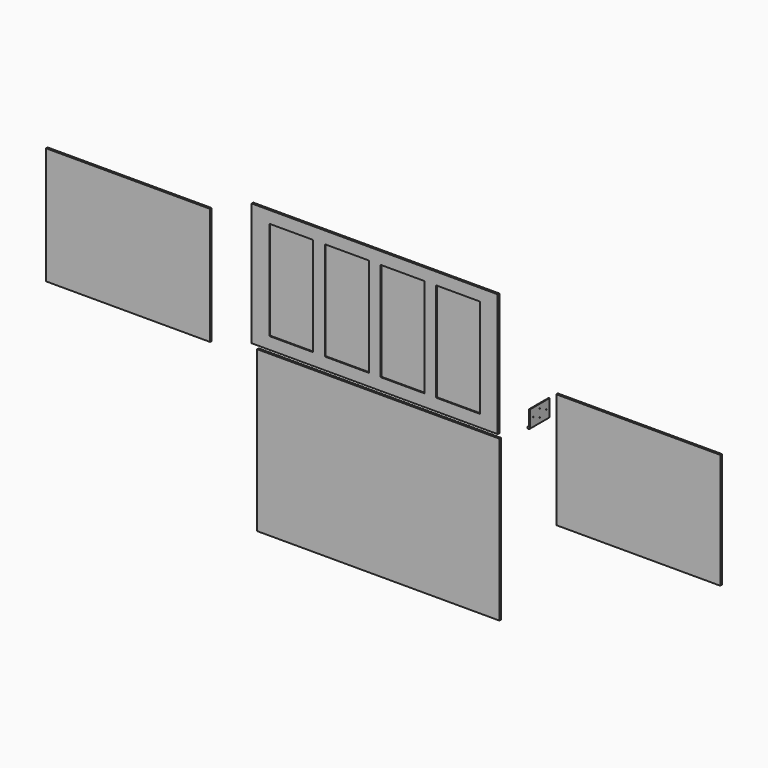
from build123d import *

# Parameters (mm, degrees)
F1_W      = 1500
F1_H      = 750
F2_DEPTH  = 12
F3_W      = 267.2805812507
F3_H      = 602.7265457989
F4_DEPTH  = 6
F6_DEPTH  = 150
F7_R      = 2.5
F8_DEPTH  = 5
F9_W      = 1000
F9_H      = 714
F10_DEPTH = 12
F11_W     = 1000
F11_H     = 702
F12_DEPTH = 12
F13_W     = 1476
F13_H     = 976
F14_DEPTH = 12


with BuildPart() as f2:
    # F1 (on Front) → F2 (new body)
    with BuildSketch(Plane.XZ):
        with Locations((-5.1156505942, -9.4215959932)):
            Rectangle(F1_W, F1_H)
    extrude(amount=F2_DEPTH)

    # F3 (on face) → F4 (cut)
    with BuildSketch(Plane.XZ.offset(12)):
        with Locations((-513.6726281385, -9.4215959932)):
            Rectangle(F3_W, F3_H)
        with Locations((-174.634643109, -9.4215959932)):
            Rectangle(F3_W, F3_H)
        with Locations((164.4033419205, -9.4215959932)):
            Rectangle(F3_W, F3_H)
        with Locations((503.4413269501, -9.4215959932)):
            Rectangle(F3_W, F3_H)
    extrude(amount=-F4_DEPTH, mode=Mode.SUBTRACT)


with BuildPart() as f6:
    # F5 (on Front) → F6 (new body)
    with BuildSketch(Plane.XZ):
        with BuildLine():
            ThreePointArc((1045.6069111416, -189.8425437506), (1049.2306354986, -192.5834845435), (1050.6069111416, -196.9136115624))
            Line((1050.6069111416, -196.9136115624), (1050.6069111416, -96.9136115624))
            Line((1050.6069111416, -96.9136115624), (1045.6069111416, -96.9136115624))
            Line((1045.6069111416, -96.9136115624), (1045.6069111416, -189.8425437506))
        make_face()
        with BuildLine():
            ThreePointArc((1045.6069111416, -189.8425437506), (1036.9831867846, -201.2437385814), (1050.6069111416, -196.9136115624))
            ThreePointArc((1050.6069111416, -196.9136115624), (1049.2306354986, -192.5834845435), (1045.6069111416, -189.8425437506))
        make_face()
    extrude(amount=F6_DEPTH)

    # F7 (on face) → F8 (cut, through all)
    with BuildSketch(Plane.YZ.offset(1050.6069111416)):
        with Locations((-124.4641467929, -146.9136115624)):
            Circle(F7_R)
        with Locations((-75, -122.4494647696)):
            Circle(F7_R)
        with Locations((-75, -171.3777583553)):
            Circle(F7_R)
        with Locations((-25.5358532071, -146.9136115624)):
            Circle(F7_R)
    extrude(amount=-F8_DEPTH, mode=Mode.SUBTRACT)


with BuildPart() as f10:
    # F9 (on Front) → F10 (new body)
    with BuildSketch(Plane.XZ):
        with Locations((-1507.5983405113, -102.9583936978)):
            Rectangle(F9_W, F9_H)
    extrude(amount=F10_DEPTH)


with BuildPart() as f12:
    # F11 (on Front) → F12 (new body)
    with BuildSketch(Plane.XZ):
        with Locations((1601.6464829445, -405.6539972484)):
            Rectangle(F11_W, F11_H)
    extrude(amount=F12_DEPTH)


with BuildPart() as f14:
    # F13 (on Front) → F14 (new body)
    with BuildSketch(Plane.XZ):
        with Locations((17.1092748642, -893.4164781482)):
            Rectangle(F13_W, F13_H)
    extrude(amount=F14_DEPTH)


solid = Compound([f2.part, f6.part, f10.part, f12.part, f14.part])
